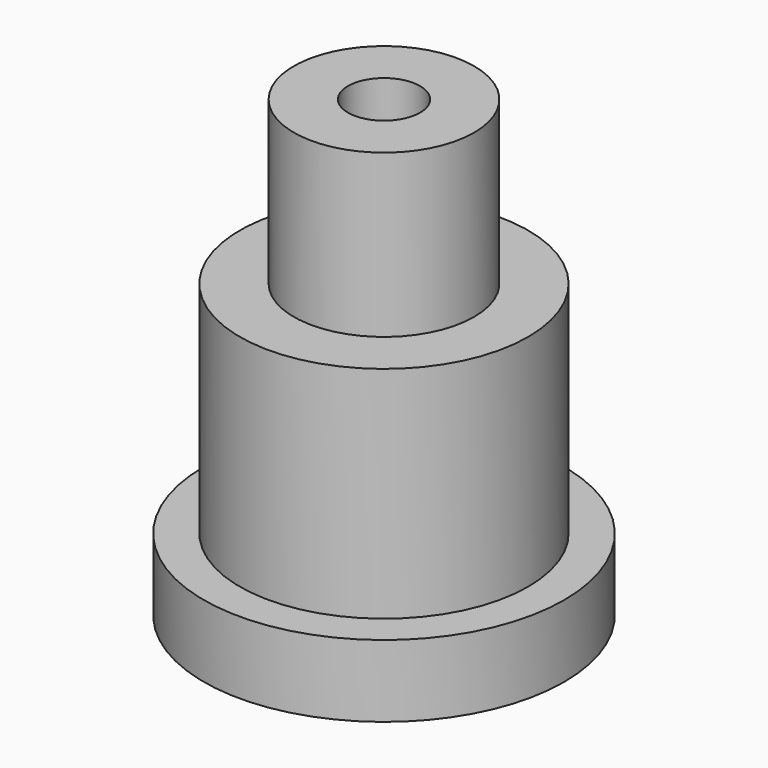
from build123d import *

# Parameters (mm, degrees)
F0_R     = 5
F1_DEPTH = 2
F2_R     = 4
F3_DEPTH = 6.1
F4_R     = 2.5
F5_DEPTH = 4.5
F7_D     = 2
F7_DEPTH = 4
F7_TIP   = 0.600860619


with BuildPart() as f1:
    # F0 (on Top) → F1 (new body)
    with BuildSketch(Plane.XY):
        Circle(F0_R)
    extrude(amount=F1_DEPTH)

    # F2 (on face) → F3 (join)
    with BuildSketch(Plane.XY.offset(2)):
        Circle(F2_R)
    extrude(amount=F3_DEPTH)

    # F4 (on face) → F5 (join)
    with BuildSketch(Plane.XY.offset(8.1)):
        Circle(F4_R)
    extrude(amount=F5_DEPTH)

    # F7
    with Locations(Plane.XY.offset(12.6)):
        with Locations((0, 0)):
            Hole(F7_D / 2, depth=F7_DEPTH)
            with Locations((0, 0, -(F7_DEPTH + F7_TIP / 2))):  # 118° drill point
                Cone(0, F7_D / 2, F7_TIP, mode=Mode.SUBTRACT)


solid = f1.part
